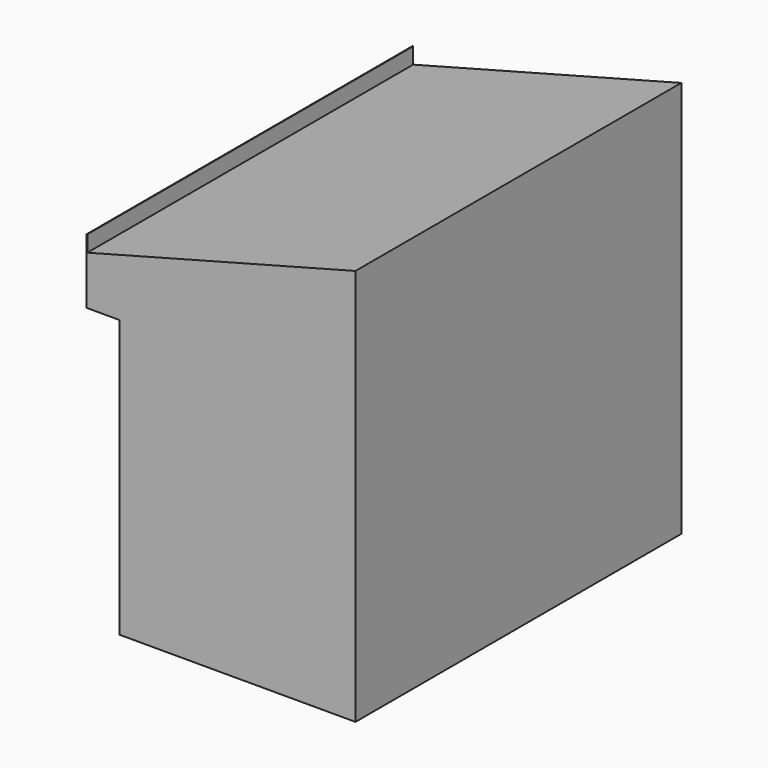
from build123d import *

# Parameters (mm, degrees)
F1_DEPTH = 1000
F3_DEPTH = 1000
F4_W     = 80
F4_H     = 680.397727
F5_DEPTH = 1000


with BuildPart() as f1:
    # F0 (on Front) → F1 (new body)
    with BuildSketch(Plane.XZ):
        Polygon((0, 800), (0, 0), (660, 0), (660, 975), align=None)
    extrude(amount=F1_DEPTH)

    # F2 (on Front) → F3 (join, through all)
    with BuildSketch(Plane.XZ):
        Polygon((0, 840), (0, 800), (1.5, 800.397727), (1.5, 840), align=None)
    extrude(amount=F3_DEPTH)

    # F4 (on face) → F5 (cut, through all)
    with BuildSketch(Plane(origin=(0, 0, 0), x_dir=(-1, 0, 0), z_dir=(0, 1, 0))):
        with Locations((-40, 340.198863)):
            Rectangle(F4_W, F4_H)
    extrude(amount=-F5_DEPTH, mode=Mode.SUBTRACT)


solid = f1.part
